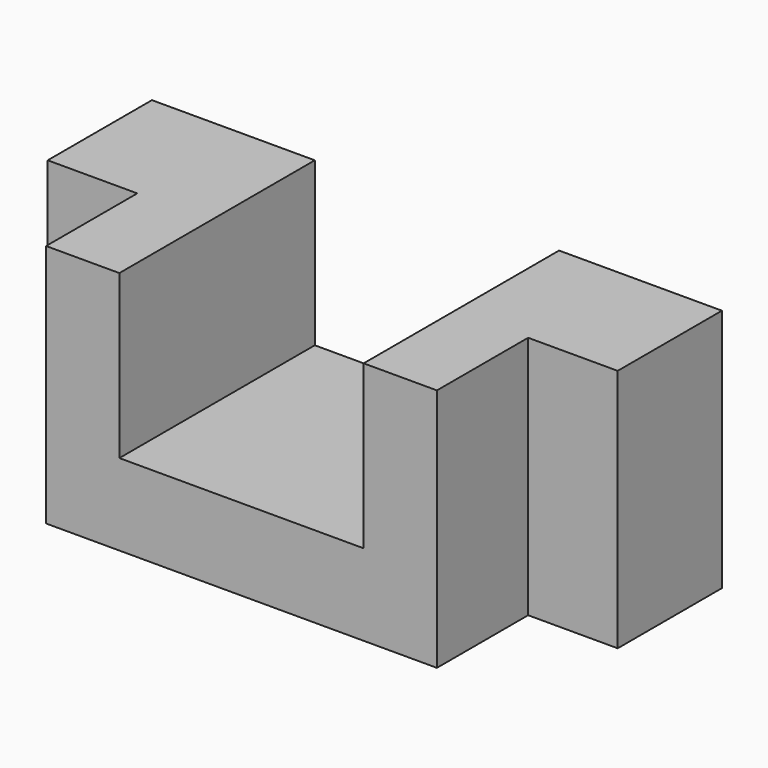
from build123d import *

# Parameters (mm, degrees)
F1_DEPTH = 30
F2_W     = 30
F2_H     = 20
F3_DEPTH = 40


with BuildPart() as f1:
    # F0 (on Top) → F1 (new body)
    with BuildSketch(Plane.XY):
        Polygon((-24, -16), (-24, -30), (24, -30), (24, -16), (35, -16), (35, 0), (-35, 0), (-35, -16), align=None)
    extrude(amount=F1_DEPTH)

    # F2 (on face) → F3 (cut)
    with BuildSketch(Plane.XZ.offset(30)):
        with Locations((0, 20)):
            Rectangle(F2_W, F2_H)
    extrude(amount=-F3_DEPTH, mode=Mode.SUBTRACT)


solid = f1.part
